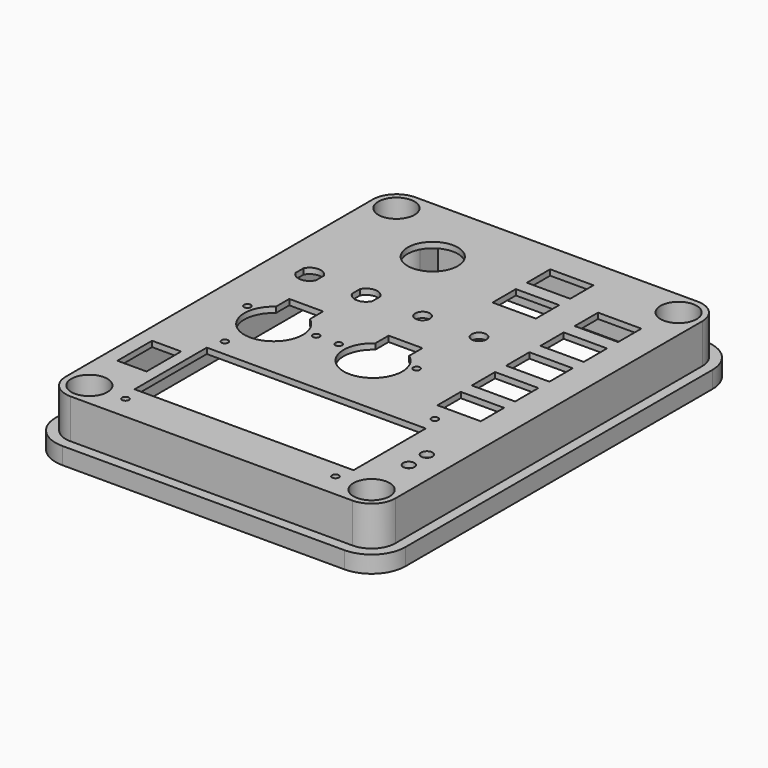
from build123d import *

# Parameters (mm, degrees)
SKETCH_W        = 155
SKETCH_H        = 200
PAD_DEPTH       = 25
POCKET_DEPTH    = 22.5
FILLET_R        = 15
SKETCH002_R     = 5
POCKET001_DEPTH = 25.001
SKETCH003_R     = 8
POCKET002_DEPTH = 16
POCKET003_DEPTH = 17.5
POCKET004_DEPTH = 17.5
SKETCH006_R     = 1.5
SKETCH006_W     = 97
SKETCH006_H     = 40
POCKET005_DEPTH = 2.501
SKETCH007_R     = 11.125
SKETCH007_R_2   = 1.5
SKETCH007_R_3   = 3.25
SKETCH007_R_4   = 2.5
SKETCH007_W     = 19.2
SKETCH007_H     = 12.9
SKETCH007_W_2   = 12.9
SKETCH007_H_2   = 19.2
POCKET006_DEPTH = 5


with BuildPart() as part:
    # Sketch → Pad (new body)
    with BuildSketch(Plane.XY):
        with Locations((77.5, 100)):
            Rectangle(SKETCH_W, SKETCH_H)
    extrude(amount=PAD_DEPTH)

    # Sketch001 (on Face5 of Pad) → Pocket (cut)
    with BuildSketch(Plane(origin=(0, 0, 0), x_dir=(1, 0, 0), z_dir=(0, 0, -1))):
        with BuildLine():
            ThreePointArc((17.500001, -27.5), (24.571081, -24.571055), (27.5, -17.499964))
            Line((27.5, -17.499964), (27.5, -7.5))
            Line((27.5, -7.5), (127.5, -7.5))
            Line((127.5, -7.5), (127.5, -17.500001))
            ThreePointArc((127.5, -17.500001), (130.428932, -24.571068), (137.499999, -27.5))
            Line((137.499999, -27.5), (147.5, -27.5))
            Line((147.5, -27.5), (147.5, -172.5))
            Line((147.5, -172.5), (137.499999, -172.5))
            ThreePointArc((137.499999, -172.5), (130.428932, -175.428932), (127.5, -182.499998))
            Line((127.5, -192.5), (127.5, -182.499998))
            Line((27.5, -192.5), (127.5, -192.5))
            Line((27.5, -182.499999), (27.5, -192.5))
            ThreePointArc((27.5, -182.499999), (24.571068, -175.428932), (17.500001, -172.5))
            Line((17.500001, -172.5), (7.5, -172.5))
            Line((7.5, -172.5), (7.5, -27.5))
            Line((7.5, -27.5), (17.500001, -27.5))
        make_face()
    extrude(amount=-POCKET_DEPTH, mode=Mode.SUBTRACT)

    # Fillet
    fillet_edges = [part.edges().sort_by_distance(p)[0] for p in [
        (155, 0, 12.5),
        (155, 200, 12.5),
        (0, 0, 12.5),
        (0, 200, 12.5),
    ]]
    fillet(fillet_edges, radius=FILLET_R)

    # Sketch002 (on Face2 of Fillet) → Pocket001 (cut, through all)
    with BuildSketch(Plane(origin=(0, 0, 0), x_dir=(1, 0, 0), z_dir=(0, 0, -1))):
        with Locations((15, -15)):
            Circle(SKETCH002_R)
        with Locations((140, -15)):
            Circle(SKETCH002_R)
        with Locations((140, -185)):
            Circle(SKETCH002_R)
        with Locations((15, -185)):
            Circle(SKETCH002_R)
    extrude(amount=-POCKET001_DEPTH, mode=Mode.SUBTRACT)

    # Sketch003 (on Face5 of Pocket001) → Pocket002 (cut)
    with BuildSketch(Plane.XY.offset(25)):
        with Locations((15, 185)):
            Circle(SKETCH003_R)
        with Locations((140, 185)):
            Circle(SKETCH003_R)
        with Locations((140, 15)):
            Circle(SKETCH003_R)
        with Locations((15, 15)):
            Circle(SKETCH003_R)
    extrude(amount=-POCKET002_DEPTH, mode=Mode.SUBTRACT)

    # Sketch004 (on Face5 of Pocket002) → Pocket003 (cut)
    with BuildSketch(Plane.XY.offset(25)):
        with BuildLine():
            ThreePointArc((15, 200), (4.393398, 195.606602), (0, 185))
            Line((0, 15), (0, 185))
            ThreePointArc((0, 15), (4.393398, 4.393398), (15, 0))
            Line((140, 0), (15, 0))
            ThreePointArc((140, 0), (150.606602, 4.393398), (155, 15))
            Line((155, 185), (155, 15))
            ThreePointArc((155, 185), (150.606602, 195.606602), (140, 200))
            Line((15, 200), (140, 200))
        make_face()
        with BuildLine():
            ThreePointArc((15, 195.5), (7.575379, 192.424621), (4.5, 185))
            Line((4.5, 185), (4.5, 15))
            ThreePointArc((4.5, 15), (7.575379, 7.575379), (15, 4.5))
            Line((15, 4.5), (140, 4.5))
            ThreePointArc((140, 4.5), (147.424621, 7.575379), (150.5, 15))
            Line((150.5, 15), (150.5, 184.999955))
            ThreePointArc((150.5, 184.999955), (147.424637, 192.424605), (140, 195.5))
            Line((15, 195.5), (140, 195.5))
        make_face(mode=Mode.SUBTRACT)
    extrude(amount=POCKET003_DEPTH, mode=Mode.SUBTRACT)

    # Sketch004 (on Face5 of Pocket002) → Pocket004 (cut)
    with BuildSketch(Plane.XY.offset(25)):
        with BuildLine():
            ThreePointArc((15, 200), (4.393398, 195.606602), (0, 185))
            Line((0, 15), (0, 185))
            ThreePointArc((0, 15), (4.393398, 4.393398), (15, 0))
            Line((140, 0), (15, 0))
            ThreePointArc((140, 0), (150.606602, 4.393398), (155, 15))
            Line((155, 185), (155, 15))
            ThreePointArc((155, 185), (150.606602, 195.606602), (140, 200))
            Line((15, 200), (140, 200))
        make_face()
        with BuildLine():
            ThreePointArc((15, 195.5), (7.575379, 192.424621), (4.5, 185))
            Line((4.5, 185), (4.5, 15))
            ThreePointArc((4.5, 15), (7.575379, 7.575379), (15, 4.5))
            Line((15, 4.5), (140, 4.5))
            ThreePointArc((140, 4.5), (147.424621, 7.575379), (150.5, 15))
            Line((150.5, 15), (150.5, 184.999955))
            ThreePointArc((150.5, 184.999955), (147.424637, 192.424605), (140, 195.5))
            Line((15, 195.5), (140, 195.5))
        make_face(mode=Mode.SUBTRACT)
    extrude(amount=-POCKET004_DEPTH, mode=Mode.SUBTRACT)

    # Sketch006 (on Face40 of Pocket004) → Pocket005 (cut, through all)
    with BuildSketch(Plane(origin=(0, 0, 22.5), x_dir=(1, 0, 0), z_dir=(0, 0, -1))):
        with Locations((31, -15)):
            Circle(SKETCH006_R)
        with Locations((124, -15)):
            Circle(SKETCH006_R)
        with Locations((124, -70)):
            Circle(SKETCH006_R)
        with Locations((31, -70)):
            Circle(SKETCH006_R)
        with Locations((77.5, -42.5)):
            Rectangle(SKETCH006_W, SKETCH006_H)
    extrude(amount=-POCKET005_DEPTH, mode=Mode.SUBTRACT)

    # Sketch007 (on Face40 of Pocket005) → Pocket006 (cut)
    with BuildSketch(Plane(origin=(0, 0, 22.5), x_dir=(1, 0, 0), z_dir=(0, 0, -1))):
        with Locations((47.5, -164.5)):
            Circle(SKETCH007_R)
        with Locations((20.5, -95.6)):
            Circle(SKETCH007_R_2)
        with Locations((95.5, -95.6)):
            Circle(SKETCH007_R_2)
        with Locations((53, -93.05)):
            Circle(SKETCH007_R_2)
        with Locations((63, -93.05)):
            Circle(SKETCH007_R_2)
        with Locations((72.5, -127.6)):
            Circle(SKETCH007_R_3)
        with Locations((97.5, -127.6)):
            Circle(SKETCH007_R_3)
        with Locations((138.5, -37.5)):
            Circle(SKETCH007_R_4)
        with Locations((138.5, -47.5)):
            Circle(SKETCH007_R_4)
        with Locations((127.9, -85.05)):
            Rectangle(SKETCH007_W, SKETCH007_H)
        with Locations((127.9, -123.05)):
            Rectangle(SKETCH007_W, SKETCH007_H)
        with Locations((127.9, -142.05)):
            Rectangle(SKETCH007_W, SKETCH007_H)
        with Locations((127.9, -161.05)):
            Rectangle(SKETCH007_W, SKETCH007_H)
        with Locations((127.9, -104.05)):
            Rectangle(SKETCH007_W, SKETCH007_H)
        with BuildLine():
            ThreePointArc((87.5, -101.41838), (80, -77.8), (72.5, -101.41838))
            Line((72.5, -101.41838), (72.5, -108.8))
            Line((72.5, -108.8), (87.5, -108.8))
            Line((87.5, -108.8), (87.5, -101.41838))
        make_face()
        with BuildLine():
            ThreePointArc((43.5, -101.41838), (36, -77.8), (28.5, -101.41838))
            Line((28.5, -101.41838), (28.5, -108.8))
            Line((28.5, -108.8), (43.5, -108.8))
            Line((43.5, -101.41838), (43.5, -108.8))
        make_face()
        with Locations((94.7, -157.05)):
            Rectangle(SKETCH007_W, SKETCH007_H)
        with Locations((94.7, -176.05)):
            Rectangle(SKETCH007_W, SKETCH007_H)
        with Locations((17.45, -45.1)):
            Rectangle(SKETCH007_W_2, SKETCH007_H_2)
        with BuildLine():
            Line((27, -125.420551), (27, -129.779449))
            ThreePointArc((18, -129.779449), (22.5, -132.6), (27, -129.779449))
            Line((18, -129.779449), (18, -125.420551))
            ThreePointArc((27, -125.420551), (22.5, -122.6), (18, -125.420551))
        make_face()
        with BuildLine():
            Line((52, -125.420551), (52, -129.779449))
            ThreePointArc((43, -129.779449), (47.5, -132.6), (52, -129.779449))
            Line((43, -129.779449), (43, -125.420551))
            ThreePointArc((52, -125.420551), (47.5, -122.6), (43, -125.420551))
        make_face()
    extrude(amount=-POCKET006_DEPTH, mode=Mode.SUBTRACT)


solid = part.part
